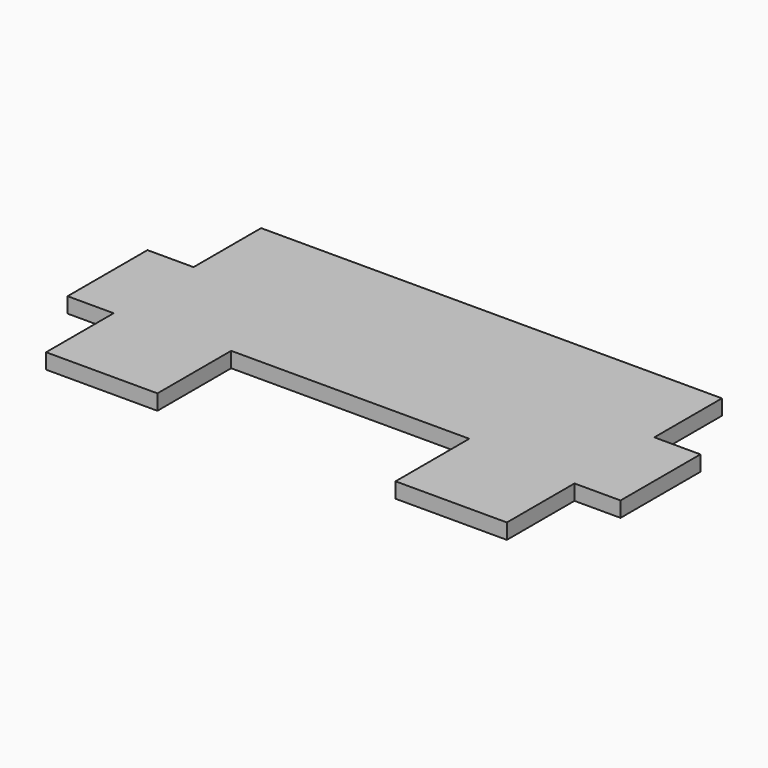
from build123d import *

# Parameters (mm, degrees)
BOX018_W     = 3.1
BOX018_H     = 1.2
BOX018_DEPTH = 0.2
BOX017_W     = 0.6
BOX017_H     = 1.1
BOX017_DEPTH = 0.2
BOX016_W     = 0.6
BOX016_H     = 1.1
BOX016_DEPTH = 0.2
BOX015_W     = 0.6
BOX015_H     = 1.1
BOX015_DEPTH = 0.2
BOX014_W     = 0.6
BOX014_H     = 1.1
BOX014_DEPTH = 0.2
BOX019_W     = 7.2
BOX019_H     = 3.5
BOX019_DEPTH = 0.2


with BuildPart() as cube018:
    # Box018 → Box018 (new body)
    with BuildSketch(Plane(origin=(2.05, 0, 1.3), x_dir=(1, 0, 0), z_dir=(0, 0, 1))):
        with Locations((1.55, 0.6)):
            Rectangle(BOX018_W, BOX018_H)
    extrude(amount=BOX018_DEPTH)


with BuildPart() as cube017:
    # Box017 → Box017 (new body)
    with BuildSketch(Plane(origin=(0, 2.4, 1.3), x_dir=(1, 0, 0), z_dir=(0, 0, 1))):
        with Locations((0.3, 0.55)):
            Rectangle(BOX017_W, BOX017_H)
    extrude(amount=BOX017_DEPTH)


with BuildPart() as cube016:
    # Box016 → Box016 (new body)
    with BuildSketch(Plane.XY.offset(1.3)):
        with Locations((0.3, 0.55)):
            Rectangle(BOX016_W, BOX016_H)
    extrude(amount=BOX016_DEPTH)


with BuildPart() as cube015:
    # Box015 → Box015 (new body)
    with BuildSketch(Plane(origin=(6.6, 2.4, 1.3), x_dir=(1, 0, 0), z_dir=(0, 0, 1))):
        with Locations((0.3, 0.55)):
            Rectangle(BOX015_W, BOX015_H)
    extrude(amount=BOX015_DEPTH)


with BuildPart() as cube014:
    # Box014 → Box014 (new body)
    with BuildSketch(Plane(origin=(6.6, 0, 1.3), x_dir=(1, 0, 0), z_dir=(0, 0, 1))):
        with Locations((0.3, 0.55)):
            Rectangle(BOX014_W, BOX014_H)
    extrude(amount=BOX014_DEPTH)


with BuildPart() as silver_top:
    # Box019 → Box019 (new body)
    with BuildSketch(Plane.XY.offset(1.3)):
        with Locations((3.6, 1.75)):
            Rectangle(BOX019_W, BOX019_H)
    extrude(amount=BOX019_DEPTH)

    # Cut: cut Cube014
    add(cube014.part, mode=Mode.SUBTRACT)

    # Cut001: cut Cube015
    add(cube015.part, mode=Mode.SUBTRACT)

    # Cut002: cut Cube016
    add(cube016.part, mode=Mode.SUBTRACT)

    # Cut003: cut Cube017
    add(cube017.part, mode=Mode.SUBTRACT)

    # Cut004: cut Cube018
    add(cube018.part, mode=Mode.SUBTRACT)


solid = silver_top.part
